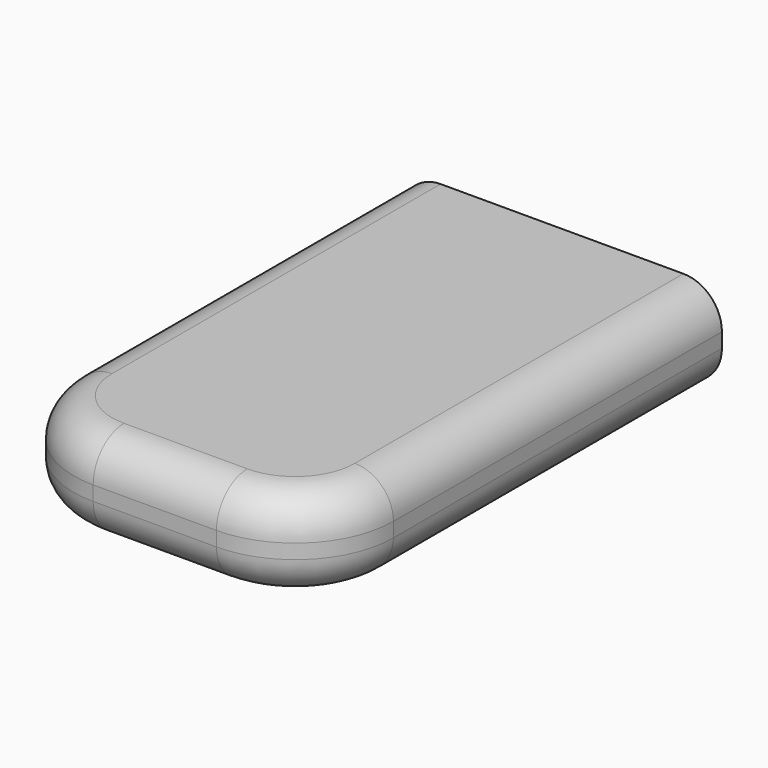
from build123d import *

# Parameters (mm, degrees)
F0_W     = 22
F0_H     = 35
F1_DEPTH = 6.3
F2_R     = 6.7597979746
F3_R     = 2.65
F5_D     = 2.7
F5_DEPTH = 15
F5_TIP   = 0.8111618357


with BuildPart() as f1:
    # F0 (on Top) → F1 (new body)
    with BuildSketch(Plane.XY):
        Rectangle(F0_W, F0_H)
    extrude(amount=F1_DEPTH)

    # F2
    f2_edges = [f1.edges().sort_by_distance(p)[0] for p in [
        (-11, -17.5, 3.15),
        (11, -17.5, 3.15),
    ]]
    fillet(f2_edges, radius=F2_R)

    # F3
    f3_edges = [f1.edges().sort_by_distance(p)[0] for p in [
        (-11, 3.379899, 6.3),
        (-11, 3.379899, 0),
    ]]
    fillet(f3_edges, radius=F3_R)

    # F5
    with Locations(Plane(origin=(0, 17.5, 0), x_dir=(-1, 0, 0), z_dir=(0, 1, 0))):
        with Locations((0, 3.15)):
            Hole(F5_D / 2, depth=F5_DEPTH)
            with Locations((0, 0, -(F5_DEPTH + F5_TIP / 2))):  # 118° drill point
                Cone(0, F5_D / 2, F5_TIP, mode=Mode.SUBTRACT)


solid = f1.part
